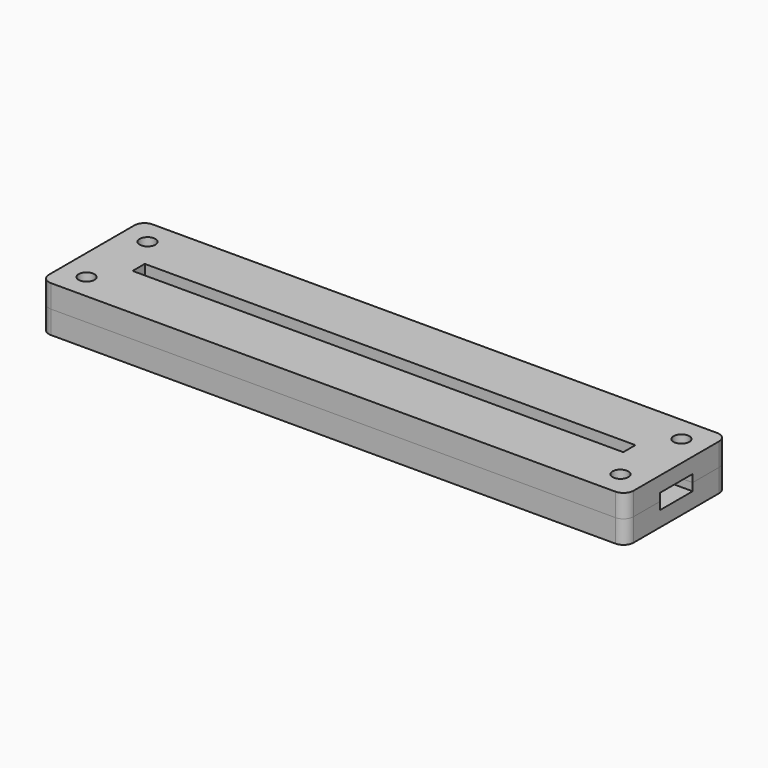
from build123d import *

# Parameters (mm, degrees)
BOX_BOTTOM_HALF_0_W     = 117
BOX_BOTTOM_HALF_0_H     = 27
BOX_BOTTOM_HALF_0_DEPTH = 5.5
SKETCH_W                = 115
SKETCH_H                = 25
PAD_DEPTH               = 3
PAD001_DEPTH            = 3
SKETCH002_W             = 115
SKETCH002_H             = 25
SKETCH002_W_2           = 96.5
SKETCH002_H_2           = 3
PAD002_DEPTH            = 3
SKETCH003_R             = 1.55
POCKET_DEPTH            = 245.060315
POLARPATTERN_COUNT      = 2
POLARPATTERN001_COUNT   = 2
POLARPATTERN002_COUNT   = 2
FILLET_R                = 2


with BuildPart() as box_bottom_half_0_body:
    # box_bottom_half_0 → box_bottom_half_0 (new body)
    with BuildSketch(Plane(origin=(-58.5, -13.5, -1), x_dir=(1, 0, 0), z_dir=(0, 0, 1))):
        with Locations((58.5, 13.5)):
            Rectangle(BOX_BOTTOM_HALF_0_W, BOX_BOTTOM_HALF_0_H)
    extrude(amount=BOX_BOTTOM_HALF_0_DEPTH)


with BuildPart() as body:
    # Sketch → Pad (new body)
    with BuildSketch(Plane.XY):
        Rectangle(SKETCH_W, SKETCH_H)
    extrude(amount=PAD_DEPTH)

    # Sketch001 (on Face6 of Pad) → Pad001 (join)
    with BuildSketch(Plane.XY.offset(3)):
        Polygon((-57.5, 12.5), (57.5, 12.5), (57.5, 4), (50, 4), (50, 5), (-50, 5), (-50, 4), (-57.5, 4), align=None)
        Polygon((-57.5, -12.5), (57.5, -12.5), (57.5, -4), (50, -4), (50, -5), (-50, -5), (-50, -4), (-57.5, -4), align=None)
    extrude(amount=PAD001_DEPTH)

    # Sketch002 (on Face12 of Pad001) → Pad002 (join)
    with BuildSketch(Plane.XY.offset(6)):
        Rectangle(SKETCH002_W, SKETCH002_H)
        Rectangle(SKETCH002_W_2, SKETCH002_H_2, mode=Mode.SUBTRACT)
    extrude(amount=PAD002_DEPTH)

    # Sketch003 (on Face26 of Pad002) → Pocket (cut, through all)
    with BuildSketch(Plane.XY.offset(9)):
        with Locations((-52.5, 7.5)):
            Circle(SKETCH003_R)
    pocket = extrude(amount=-POCKET_DEPTH, mode=Mode.SUBTRACT)

    # PolarPattern: Pocket ×2 about axis
    polarpattern_axis = Axis((0, 0, 0), (0, 1, 0))
    for i in range(1, POLARPATTERN_COUNT):
        add(pocket.rotate(polarpattern_axis, i * 360 / POLARPATTERN_COUNT), mode=Mode.SUBTRACT)

    # PolarPattern001: Pocket ×2 about axis
    polarpattern001_axis = Axis((0, 0, 0), (1, 0, 0))
    for i in range(1, POLARPATTERN001_COUNT):
        add(pocket.rotate(polarpattern001_axis, i * 360 / POLARPATTERN001_COUNT), mode=Mode.SUBTRACT)

    # PolarPattern002: Pocket ×2 about axis
    polarpattern002_axis = Axis((0, 0, 9), (0, 0, 1))
    for i in range(1, POLARPATTERN002_COUNT):
        add(pocket.rotate(polarpattern002_axis, i * 360 / POLARPATTERN002_COUNT), mode=Mode.SUBTRACT)

    # Fillet
    fillet_edges = [body.edges().sort_by_distance(p)[0] for p in [
        (57.5, 12.5, 7.5),
        (57.5, 12.5, 4.5),
        (57.5, 12.5, 1.5),
        (57.5, -12.5, 7.5),
        (-57.5, 12.5, 7.5),
        (-57.5, -12.5, 7.5),
    ]]
    fillet(fillet_edges, radius=FILLET_R)


with BuildPart() as bottom_half_0_body:
    # bottom_half_0 base: copy of Body
    add(body.part)

    # bottom_half_0: intersect box_bottom_half_0 body
    add(box_bottom_half_0_body.part, mode=Mode.INTERSECT)


with BuildPart() as top_half_0_body:
    # top_half_0 base: copy of Body
    add(body.part)

    # top_half_0: cut box_bottom_half_0 body
    add(box_bottom_half_0_body.part, mode=Mode.SUBTRACT)


solid = Compound([bottom_half_0_body.part, top_half_0_body.part])
